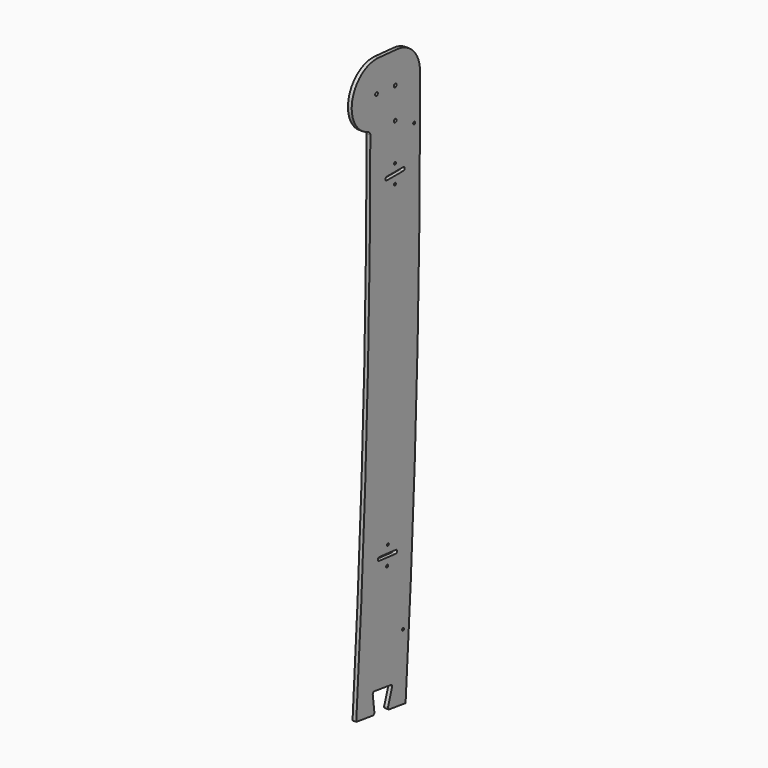
from build123d import *

# Parameters (mm, degrees)
PAD002_DEPTH    = 12
SKETCH005_R     = 5.5
HOLE_DEPTH      = 12.001
SKETCH015_R     = 4
POCKET002_DEPTH = 12.001
SKETCH040_R     = 4
HOLE007_DEPTH   = 622.001


with BuildPart() as side_right_top_part:
    # Sketch002 → Pad002 (new body)
    with BuildSketch(Plane.YZ):
        with BuildLine():
            ThreePointArc((100.076043, 99.923842), (73.635745, 167.771654), (8.210055, 199.738734))
            Line((-66.796185, 205.912919), (8.210055, 199.738734))
            ThreePointArc((-66.796185, 205.912919), (-172.766313, 127.267802), (-108.47912, 12.020766))
            ThreePointArc((-100, 0), (-102.330526, 7.356964), (-108.47912, 12.020766))
            ThreePointArc((-156.643717, -1640.664457), (-114.479942, -820.810119), (-100, 0))
            Line((-156.643717, -1640.664457), (-90.449657, -1649.834344))
            ThreePointArc((-90.449657, -1649.834344), (-85.412451, -1648.162301), (-83.672514, -1643.148141))
            Line((-83.672514, -1643.148141), (-90.302786, -1590.015365))
            ThreePointArc((-83.525643, -1583.329162), (-88.56285, -1585.001205), (-90.302786, -1590.015365))
            Line((-83.525643, -1583.329162), (-17.331583, -1592.49905))
            ThreePointArc((-12.453464, -1600.311408), (-13.065566, -1595.264457), (-17.331583, -1592.49905))
            Line((-12.453464, -1600.311408), (-29.133717, -1651.191872))
            ThreePointArc((-29.133717, -1651.191872), (-28.521615, -1656.238824), (-24.255598, -1659.004231))
            Line((-24.255598, -1659.004231), (41.938462, -1668.174118))
            ThreePointArc((41.938462, -1668.174118), (85.162756, -834.581071), (100, 0))
            Line((100, 0), (100.076043, 99.923842))
        make_face()
    extrude(amount=PAD002_DEPTH)

    # Sketch005 → Hole (cut, through all)
    with BuildSketch(Plane.YZ):
        with Locations((0, 100)):
            Circle(SKETCH005_R)
        with Locations((-75, 106.25)):
            Circle(SKETCH005_R)
        Circle(SKETCH005_R)
    extrude(amount=HOLE_DEPTH, mode=Mode.SUBTRACT)

    # Sketch015 → Pocket002 (cut, through all)
    with BuildSketch(Plane.YZ):
        with Locations((-0.303341, -120.666401)):
            Circle(SKETCH015_R)
        with Locations((-0.669999, -179.331911)):
            Circle(SKETCH015_R)
        with Locations((-29.495132, -1189.859798)):
            Circle(SKETCH015_R)
        with Locations((-32.518295, -1249.351095)):
            Circle(SKETCH015_R)
        with Locations((-130.873609, -2506.378514)):
            Circle(SKETCH015_R)
        with Locations((-136.971781, -2564.727371)):
            Circle(SKETCH015_R)
        with BuildLine():
            ThreePointArc((-63.5924, -1210.755644), (-69.621614, -1215.669765), (-64.707493, -1221.698978))
            Line((-64.707493, -1221.698978), (1.615745, -1228.457117))
            ThreePointArc((1.615745, -1228.457117), (7.644959, -1223.542997), (2.730838, -1217.513783))
            Line((2.730838, -1217.513783), (-63.5924, -1210.755644))
        make_face()
        with BuildLine():
            ThreePointArc((-33.802079, -144.499268), (-39.302079, -149.999268), (-33.802079, -155.499268))
            Line((-33.802079, -155.499268), (32.864588, -155.499268))
            ThreePointArc((32.864588, -155.499268), (38.364588, -149.999268), (32.864588, -144.499268))
            Line((32.864588, -144.499268), (-33.802079, -144.499268))
        make_face()
        with BuildLine():
            ThreePointArc((-165.386078, -2523.207318), (-171.913956, -2527.436597), (-167.684677, -2533.964476))
            Line((-167.684677, -2533.964476), (-102.489783, -2547.895382))
            ThreePointArc((-102.489783, -2547.895382), (-95.961904, -2543.666103), (-100.191183, -2537.138225))
            Line((-100.191183, -2537.138225), (-165.386078, -2523.207318))
        make_face()
        with BuildLine():
            ThreePointArc((-307.201152, -3631.252582), (-314.086519, -3634.870829), (-310.468272, -3641.756197))
            Line((-310.468272, -3641.756197), (-246.81, -3661.556925))
            ThreePointArc((-246.81, -3661.556925), (-239.924632, -3657.938678), (-243.542879, -3651.05331))
            Line((-243.542879, -3651.05331), (-307.201152, -3631.252582))
        make_face()
        with BuildLine():
            ThreePointArc((-498.714671, -4731.898869), (-505.894975, -4734.889394), (-502.90445, -4742.069697))
            Line((-502.90445, -4742.069697), (-441.263063, -4767.462292))
            ThreePointArc((-441.263063, -4767.462292), (-434.082759, -4764.471767), (-437.073284, -4757.291463))
            Line((-437.073284, -4757.291463), (-498.714671, -4731.898869))
        make_face()
    extrude(amount=POCKET002_DEPTH, mode=Mode.SUBTRACT)

    # Sketch040 (on Face1 of ShapeBinder) → Hole007 (cut, through all)
    with BuildSketch(Plane(origin=(-610, 0, 0), x_dir=(0, -1, 0), z_dir=(-1, 0, 0))):
        with Locations((-32.147032, -1454.701534)):
            Circle(SKETCH040_R)
        with Locations((-2.949201, -1878.284217)):
            Circle(SKETCH040_R)
        with Locations((-76.414195, -37.446092)):
            Circle(SKETCH040_R)
    extrude(amount=-HOLE007_DEPTH, mode=Mode.SUBTRACT)


with BuildPart() as side_right_top_part_1:
    # Body003 placement: moved
    add(side_right_top_part.part.moved(Location((610, 0, 0))))


with BuildPart() as side_left_top_part:
    # Part__Mirroring: instance of side_right_top_part
    add(side_right_top_part_1.part.mirror(Plane(origin=(-0.000122, -37.441761, -731.130615), x_dir=(0, -1, 0), z_dir=(1, 0, 0))))


solid = side_left_top_part.part
